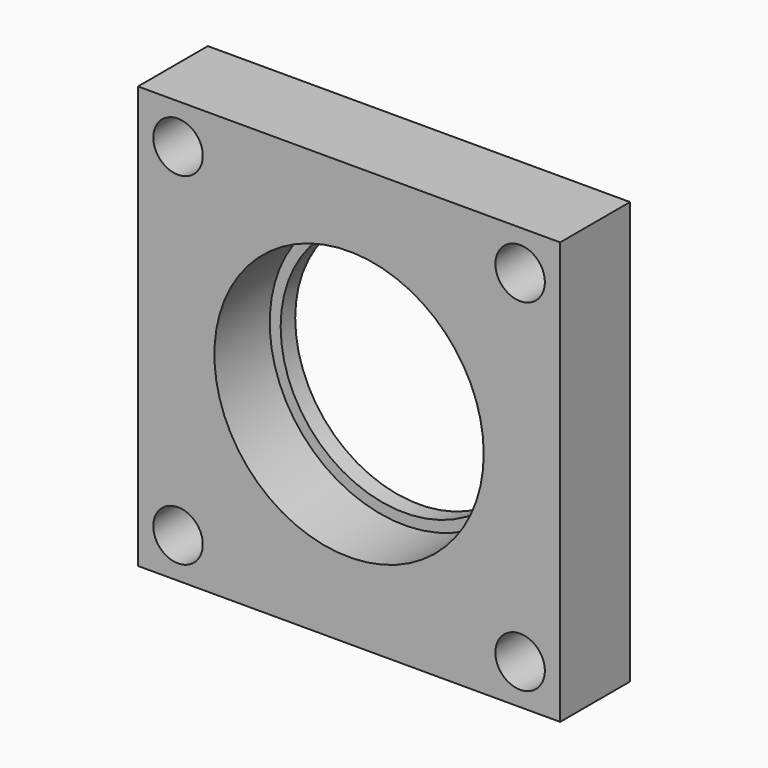
from build123d import *

# Parameters (mm, degrees)
F0_W     = 58
F0_H     = 58
F0_R     = 17
F1_DEPTH = 12
F2_R     = 18.5
F2_R_2   = 17
F3_DEPTH = 9.5
F5_D     = 6.8


with BuildPart() as f1:
    # F0 (on Front) → F1 (new body)
    with BuildSketch(Plane.XZ):
        with Locations((29, 29)):
            Rectangle(F0_W, F0_H)
        with Locations((29, 29)):
            Circle(F0_R, mode=Mode.SUBTRACT)
    extrude(amount=F1_DEPTH)

    # F2 (on face) → F3 (cut)
    with BuildSketch(Plane.XZ.offset(12)):
        with Locations((29, 29)):
            Circle(F2_R)
        with Locations((29, 29)):
            Circle(F2_R_2, mode=Mode.SUBTRACT)
    extrude(amount=-F3_DEPTH, mode=Mode.SUBTRACT)

    # F5 (through all)
    with Locations(Plane.XZ.offset(12)):
        with Locations((5.5, 52.5), (52.5, 52.5), (52.5, 5.5), (5.5, 5.5)):
            Hole(F5_D / 2)


solid = f1.part
